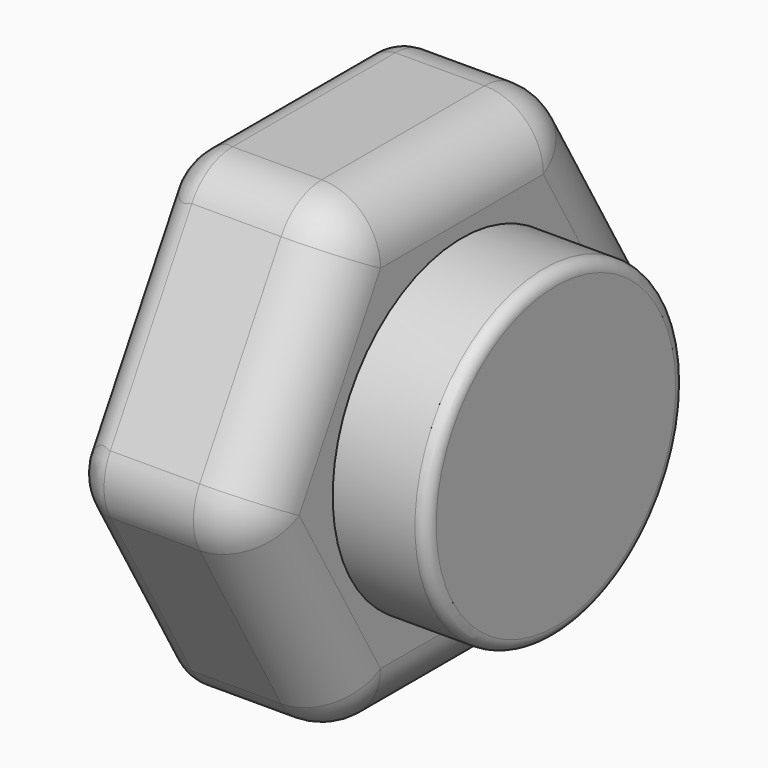
from build123d import *

# Parameters (mm, degrees)
PAD005_DEPTH    = 4.62
POCKET004_DEPTH = 3
FILLET_R        = 0.5
FILLET001_R     = 1
SKETCH011_R     = 2.75
POCKET005_DEPTH = 1.6
FILLET002_R     = 1
FILLET003_R     = 0.2


with BuildPart() as part:
    # Sketch009 → Pad005 (new body)
    with BuildSketch(Plane.YZ):
        Polygon((4.618802, 0), (2.309401, 4), (-2.309401, 4), (-4.618802, 0), (-2.309401, -4), (2.309401, -4), align=None)
    extrude(amount=PAD005_DEPTH)

    # Sketch010 → Pocket004 (cut)
    with BuildSketch(Plane.YZ):
        Polygon((3.175426, 0), (1.587713, 2.75), (-1.587713, 2.75), (-3.175426, 0), (-1.587713, -2.75), (1.587713, -2.75), align=None)
    extrude(amount=POCKET004_DEPTH, mode=Mode.SUBTRACT)

    # Fillet
    fillet_edges = [part.edges().sort_by_distance(p)[0] for p in [
        (0, 3.464102, -2),
        (0, 3.464102, 2),
        (0, 0, 4),
        (0, -3.464102, 2),
        (0, -3.464102, -2),
        (0, 0, -4),
        (0, 2.38157, -1.375),
        (0, 2.38157, 1.375),
        (0, 0, 2.75),
        (0, -2.38157, 1.375),
        (0, -2.38157, -1.375),
        (0, 0, -2.75),
    ]]
    fillet(fillet_edges, radius=FILLET_R)

    # Fillet001
    fillet001_edges = [part.edges().sort_by_distance(p)[0] for p in [
        (2.56, 4.618802, 0),
        (2.56, 2.309401, 4),
        (2.56, -2.309401, 4),
        (2.56, 2.309401, -4),
        (2.56, -2.309401, -4),
        (2.56, -4.618802, 0),
    ]]
    fillet(fillet001_edges, radius=FILLET001_R)

    # Sketch011 (on Face5 of Fillet001) → Pocket005 (cut)
    with BuildSketch(Plane.YZ.offset(4.62)):
        Polygon((4.618802, 0), (2.309401, 4), (-2.309401, 4), (-4.618802, 0), (-2.309401, -4), (2.309401, -4), align=None)
        Circle(SKETCH011_R, mode=Mode.SUBTRACT)
    extrude(amount=-POCKET005_DEPTH, mode=Mode.SUBTRACT)

    # Fillet002
    fillet002_edges = [part.edges().sort_by_distance(p)[0] for p in [
        (3.02, 0, -4),
    ]]
    fillet(fillet002_edges, radius=FILLET002_R)

    # Fillet003
    fillet003_edges = [part.edges().sort_by_distance(p)[0] for p in [
        (4.62, -2.75, 0),
    ]]
    fillet(fillet003_edges, radius=FILLET003_R)


with BuildPart() as part_1:
    # Body001 placement: moved
    add(part.part.moved(Location((22, -6.35, 11.5))))


solid = part_1.part
